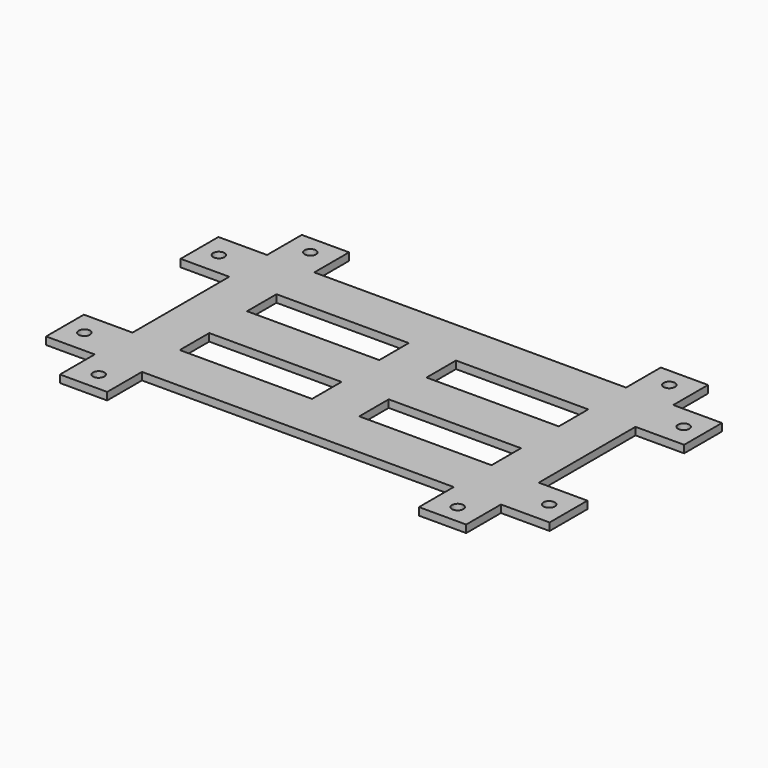
from build123d import *

# Parameters (mm, degrees)
F0_W     = 266.5
F0_H     = 160
F0_R     = 3
F1_DEPTH = 4
F2_R     = 3
F3_DEPTH = 4.001
F4_W     = 25.75
F4_H     = 23
F4_W_2   = 82.5
F4_H_2   = 32
F5_DEPTH = 4.001
F6_W     = 70
F6_H     = 19.5
F7_DEPTH = 4.001


with BuildPart() as f1:
    # F0 (on Top) → F1 (new body)
    with BuildSketch(Plane.XY):
        Rectangle(F0_W, F0_H)
        with Locations((-123, -44.5)):
            Circle(F0_R, mode=Mode.SUBTRACT)
        with Locations((123, -44.5)):
            Circle(F0_R, mode=Mode.SUBTRACT)
        with Locations((-123, 44.5)):
            Circle(F0_R, mode=Mode.SUBTRACT)
        with Locations((123, 44.5)):
            Circle(F0_R, mode=Mode.SUBTRACT)
    extrude(amount=F1_DEPTH)

    # F2 (on face) → F3 (cut, through all)
    with BuildSketch(Plane.XY.offset(4)):
        with Locations((-95, 70)):
            Circle(F2_R)
        with Locations((-95, -70)):
            Circle(F2_R)
        with Locations((95, 70)):
            Circle(F2_R)
        with Locations((95, -70)):
            Circle(F2_R)
    extrude(amount=-F3_DEPTH, mode=Mode.SUBTRACT)

    # F4 (on face) → F5 (cut, through all)
    with BuildSketch(Plane.XY.offset(4)):
        with Locations((-120.375, 68.5)):
            Rectangle(F4_W, F4_H)
        with Locations((-41.25, 68.5)):
            Rectangle(F4_W_2, F4_H)
        with Locations((41.25, 68.5)):
            Rectangle(F4_W_2, F4_H)
        with Locations((-120.375, 16)):
            Rectangle(F4_W, F4_H_2)
        with Locations((-120.375, -16)):
            Rectangle(F4_W, F4_H_2)
        with Locations((120.375, 68.5)):
            Rectangle(F4_W, F4_H)
        with Locations((120.375, 16)):
            Rectangle(F4_W, F4_H_2)
        with Locations((120.375, -16)):
            Rectangle(F4_W, F4_H_2)
        with Locations((-41.25, -68.5)):
            Rectangle(F4_W_2, F4_H)
        with Locations((41.25, -68.5)):
            Rectangle(F4_W_2, F4_H)
        with Locations((-120.375, -68.5)):
            Rectangle(F4_W, F4_H)
        with Locations((120.375, -68.5)):
            Rectangle(F4_W, F4_H)
    extrude(amount=-F5_DEPTH, mode=Mode.SUBTRACT)

    # F6 (on face) → F7 (cut, through all)
    with BuildSketch(Plane.XY.offset(4)):
        with Locations((-47.5, 22.25)):
            Rectangle(F6_W, F6_H)
        with Locations((47.5, 22.25)):
            Rectangle(F6_W, F6_H)
        with Locations((47.5, -22.25)):
            Rectangle(F6_W, F6_H)
        with Locations((-47.5, -22.25)):
            Rectangle(F6_W, F6_H)
    extrude(amount=-F7_DEPTH, mode=Mode.SUBTRACT)


solid = f1.part
